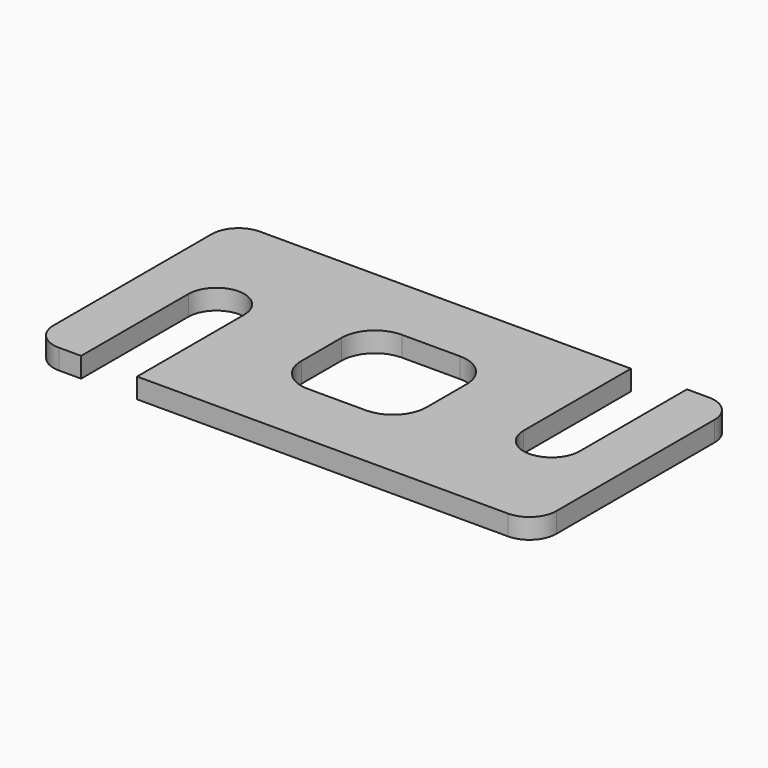
from build123d import *

# Parameters (mm, degrees)
F1_DEPTH = 6


with BuildPart() as f1:
    # F0 (on Top) → F1 (new body)
    with BuildSketch(Plane.XY):
        with BuildLine():
            ThreePointArc((0, 8), (2.343146, 2.343146), (8, 0))
            Line((8, 0), (14.620164, 0))
            Line((14.620164, 0), (14.620164, 40))
            ThreePointArc((14.620164, 40), (22.97018, 48.350016), (31.320196, 40))
            Line((31.320196, 40), (31.320196, 0))
            Line((31.320196, 0), (142, 0))
            ThreePointArc((142, 0), (147.656854, 2.343146), (150, 8))
            Line((150, 8), (150, 67))
            ThreePointArc((150, 67), (147.656854, 72.656854), (142, 75))
            Line((142, 75), (135.395, 75))
            Line((135.395, 75), (135.395, 34.995))
            ThreePointArc((135.395, 34.995), (127.0384, 26.6384), (118.6818, 34.995))
            Line((118.6818, 34.995), (118.6818, 75))
            Line((118.6818, 75), (8, 75))
            ThreePointArc((8, 75), (2.343146, 72.656854), (0, 67))
            Line((0, 67), (0, 8))
        make_face()
        with BuildLine():
            ThreePointArc((56.320196, 45), (59.249128, 52.071068), (66.320196, 55))
            Line((66.320196, 55), (83.6818, 55))
            ThreePointArc((83.6818, 55), (90.752868, 52.071068), (93.6818, 45))
            Line((93.6818, 45), (93.6818, 30))
            ThreePointArc((93.6818, 30), (90.752868, 22.928932), (83.6818, 20))
            Line((83.6818, 20), (66.320196, 20))
            ThreePointArc((66.320196, 20), (59.249128, 22.928932), (56.320196, 30))
            Line((56.320196, 30), (56.320196, 45))
        make_face(mode=Mode.SUBTRACT)
    extrude(amount=F1_DEPTH)


solid = f1.part
